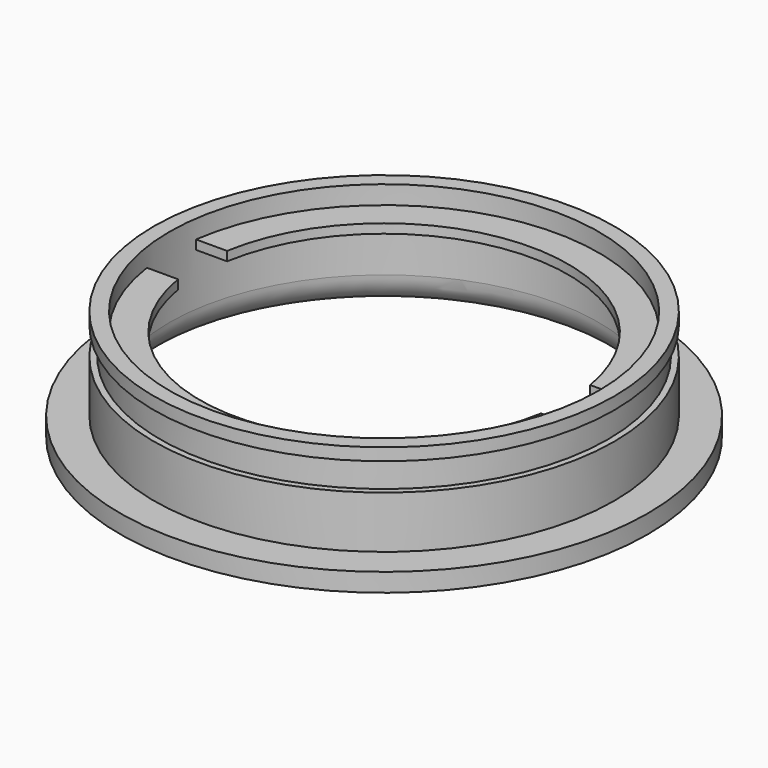
from build123d import *

# Parameters (mm, degrees)
F0_R      = 37.5
F0_R_2    = 35
F1_DEPTH  = 18
F2_R      = 43
F2_R_2    = 35
F3_DEPTH  = 3
F4_R      = 5
F6_R      = 37.5
F6_R_2    = 36.5
F7_DEPTH  = 4.5
F10_DEPTH = 1.5


with BuildPart() as f1:
    # F0 (on Top) → F1 (new body)
    with BuildSketch(Plane.XY):
        Circle(F0_R)
        Circle(F0_R_2, mode=Mode.SUBTRACT)
    extrude(amount=F1_DEPTH)

    # F2 (on Top) → F3 (join)
    with BuildSketch(Plane.XY):
        Circle(F2_R)
        Circle(F2_R_2, mode=Mode.SUBTRACT)
    extrude(amount=F3_DEPTH)

    # F4
    f4_edges = [f1.edges().sort_by_distance(p)[0] for p in [
        (-35, 0, 0),
    ]]
    fillet(f4_edges, radius=F4_R)

    # F6 (on offset) → F7 (cut)
    with BuildSketch(Plane.XY.offset(16)):
        Circle(F6_R)
        Circle(F6_R_2, mode=Mode.SUBTRACT)
    extrude(amount=-F7_DEPTH, mode=Mode.SUBTRACT)

    # F9 (on offset) → F10 (join)
    with BuildSketch(Plane.XY.offset(15)):
        with BuildLine():
            Line((29.580399, 5), (34.641016, 5))
            ThreePointArc((34.641016, 5), (0, 35), (-34.641016, 5))
            Line((-34.641016, 5), (-29.580399, 5))
            ThreePointArc((-29.580399, 5), (0, 30), (29.580399, 5))
        make_face()
        with BuildLine():
            Line((34.641016, -5), (29.580399, -5))
            ThreePointArc((29.580399, -5), (0, -30), (-29.580399, -5))
            Line((-29.580399, -5), (-34.641016, -5))
            ThreePointArc((-34.641016, -5), (0, -35), (34.641016, -5))
        make_face()
    extrude(amount=-F10_DEPTH)


solid = f1.part
